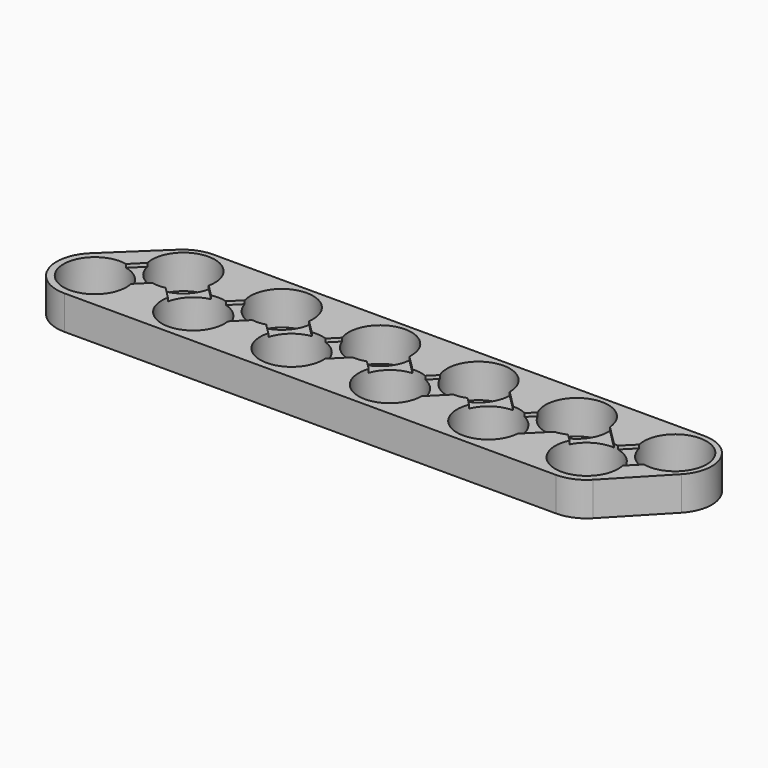
from build123d import *

# Parameters (mm, degrees)
F0_R     = 9.25
F1_DEPTH = 10
F3_DEPTH = 1


with BuildPart() as f1:
    # F0 (on Top) → F1 (new body)
    with BuildSketch(Plane.XY):
        with BuildLine():
            Line((6.897679, 22.142775), (-7.769625, 8.136057))
            ThreePointArc((-7.769625, 8.136057), (-10.442537, -4.185204), (0, -11.25))
            Line((0, -11.25), (144.95689, -11.25))
            ThreePointArc((144.95689, -11.25), (149.386068, -10.341416), (153.099818, -7.762424))
            Line((153.099818, -7.762424), (167.240634, 7.071555))
            ThreePointArc((167.240634, 7.071555), (169.343312, 18.731841), (159.452579, 25.255409))
            Line((159.452579, 25.255409), (14.495689, 25.255409))
            ThreePointArc((14.495689, 25.255409), (10.402571, 24.417028), (6.897679, 22.142775))
        make_face()
        Circle(F0_R, mode=Mode.SUBTRACT)
        with Locations((28.991378, 0)):
            Circle(F0_R, mode=Mode.SUBTRACT)
        with Locations((57.982756, 0)):
            Circle(F0_R, mode=Mode.SUBTRACT)
        with Locations((86.974134, 0)):
            Circle(F0_R, mode=Mode.SUBTRACT)
        with Locations((115.965512, 0)):
            Circle(F0_R, mode=Mode.SUBTRACT)
        with Locations((144.95689, 0)):
            Circle(F0_R, mode=Mode.SUBTRACT)
        with Locations((14.495689, 14.495689)):
            Circle(F0_R, mode=Mode.SUBTRACT)
        with Locations((43.487067, 14.495689)):
            Circle(F0_R, mode=Mode.SUBTRACT)
        with Locations((72.478445, 14.495689)):
            Circle(F0_R, mode=Mode.SUBTRACT)
        with Locations((101.469823, 14.495689)):
            Circle(F0_R, mode=Mode.SUBTRACT)
        with Locations((130.461201, 14.495689)):
            Circle(F0_R, mode=Mode.SUBTRACT)
        with Locations((159.452579, 14.495689)):
            Circle(F0_R, mode=Mode.SUBTRACT)
    extrude(amount=F1_DEPTH)

    # F2 (on face) → F3 (cut)
    with BuildSketch(Plane.XY.offset(10)):
        Polygon((-3.889087, 3.181981), (3.181981, -3.889087), (14.495689, 7.424621), (25.632621, -3.712311), (29.168155, -0.176777), (25.809398, 3.181981), (29.344931, 6.717514), (17.854446, 18.208), (10.960155, 18.031223), align=None)
        Polygon((32.703689, 3.358757), (29.168155, -0.176777), (32.880465, -3.889087), (44.194174, 7.424621), (55.331106, -3.712311), (58.86664, -0.176777), (55.507882, 3.181981), (59.043416, 6.717514), (47.552931, 18.208), (40.65864, 18.031223), (29.344931, 6.717514), align=None)
        Polygon((62.402173, 3.358757), (58.86664, -0.176777), (62.57895, -3.889087), (73.892659, 7.424621), (85.02959, -3.712311), (88.565124, -0.176777), (85.206367, 3.181981), (88.741901, 6.717514), (77.251416, 18.208), (70.357125, 18.031223), (59.043416, 6.717514), align=None)
        Polygon((100.05561, 18.031223), (88.741901, 6.717514), (92.100658, 3.358757), (88.565124, -0.176777), (92.277435, -3.889087), (103.591143, 7.424621), (114.728075, -3.712311), (118.263609, -0.176777), (114.904852, 3.181981), (118.440386, 6.717514), (106.949901, 18.208), align=None)
        Polygon((129.754094, 18.031223), (118.440386, 6.717514), (121.799143, 3.358757), (118.263609, -0.176777), (121.97592, -3.889087), (133.289628, 7.424621), (144.42656, -3.712311), (146.371104, -1.767767), (141.24458, 3.358757), (146.371104, 8.485281), (136.648385, 18.208), align=None)
        Polygon((156.093822, 18.208), (146.371104, 8.485281), (151.497628, 3.358757), (146.371104, -1.767767), (148.315647, -3.712311), (163.16489, 11.136932), align=None)
    extrude(amount=-F3_DEPTH, mode=Mode.SUBTRACT)


solid = f1.part
